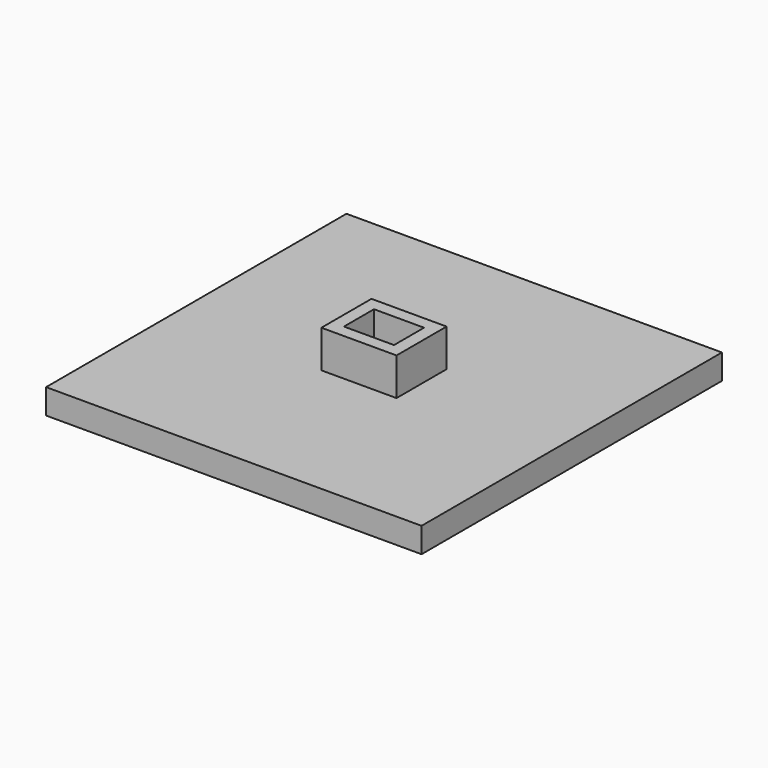
from build123d import *

# Parameters (mm, degrees)
F1_DEPTH = 10
F2_W     = 30
F2_H     = 25
F2_W_2   = 20
F2_H_2   = 15
F3_DEPTH = 15
F4_DEPTH = 5


with BuildPart() as f1:
    # F0 (on Top) → F1 (new body)
    with BuildSketch(Plane.XY):
        Polygon((109.8478005826, 31.3216452301), (42.3478005826, 98.8216452301), (42.3478005826, -51.1783547699), (109.8478005826, 16.3216452301), (107.3478005826, 16.3216452301), (107.3478005826, 31.3216452301), align=None)
        Polygon((192.3478005826, 98.8216452301), (42.3478005826, 98.8216452301), (109.8478005826, 31.3216452301), (124.8478005826, 31.3216452301), align=None)
        Polygon((192.3478005826, -51.1783547699), (192.3478005826, 98.8216452301), (124.8478005826, 31.3216452301), (127.3478005826, 31.3216452301), (127.3478005826, 16.3216452301), (124.8478005826, 16.3216452301), align=None)
        Polygon((109.8478005826, 16.3216452301), (42.3478005826, -51.1783547699), (192.3478005826, -51.1783547699), (124.8478005826, 16.3216452301), align=None)
    extrude(amount=F1_DEPTH)

    # F2 (on face) → F3 (join)
    with BuildSketch(Plane.XY.offset(10)):
        with Locations((117.3478005826, 23.8216452301)):
            Rectangle(F2_W, F2_H)
        with Locations((117.3478005826, 23.8216452301)):
            Rectangle(F2_W_2, F2_H_2, mode=Mode.SUBTRACT)
    extrude(amount=F3_DEPTH)

    # F0 (on Top) → F4 (join)
    with BuildSketch(Plane.XY):
        Polygon((127.3478005826, 31.3216452301), (124.8478005826, 31.3216452301), (117.3478005826, 23.8216452301), (124.8478005826, 16.3216452301), (127.3478005826, 16.3216452301), align=None)
        Polygon((124.8478005826, 31.3216452301), (109.8478005826, 31.3216452301), (117.3478005826, 23.8216452301), align=None)
        Polygon((117.3478005826, 23.8216452301), (109.8478005826, 31.3216452301), (107.3478005826, 31.3216452301), (107.3478005826, 16.3216452301), (109.8478005826, 16.3216452301), align=None)
        Polygon((117.3478005826, 23.8216452301), (109.8478005826, 16.3216452301), (124.8478005826, 16.3216452301), align=None)
    extrude(amount=F4_DEPTH)


solid = f1.part
